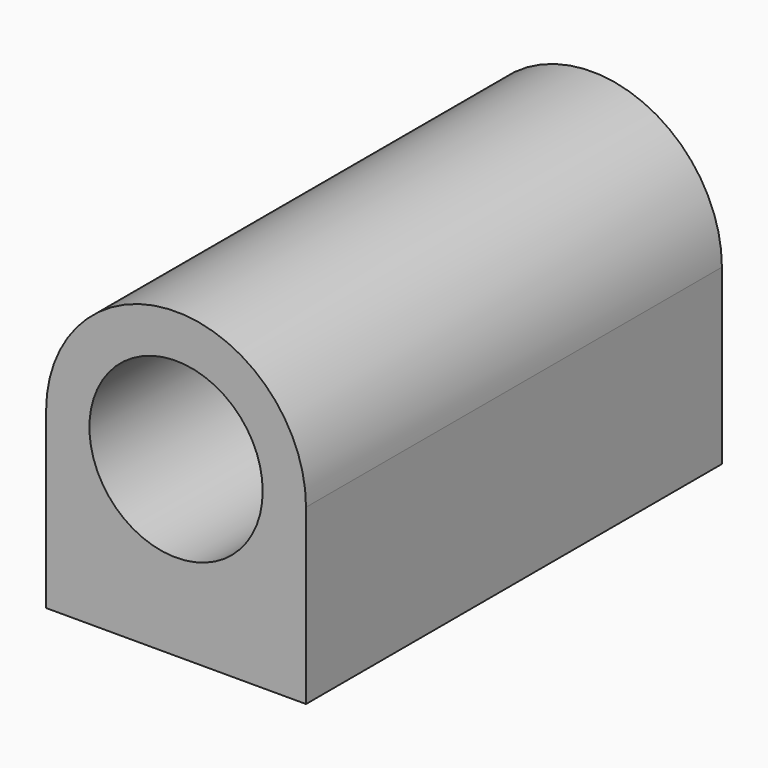
from build123d import *

# Parameters (mm, degrees)
F0_R     = 0.5
F1_DEPTH = 1.5
F2_R     = 0.065
F3_DEPTH = 0.5


with BuildPart() as f1:
    # F0 (on Front) → F1 (new body, symmetric)
    with BuildSketch(Plane.XZ):
        with BuildLine():
            Line((-0.75, 0), (-0.75, -1))
            Line((-0.75, -1), (0.75, -1))
            Line((0.75, -1), (0.75, 0))
            ThreePointArc((0.75, 0), (0, 0.75), (-0.75, 0))
        make_face()
        Circle(F0_R, mode=Mode.SUBTRACT)
    extrude(amount=F1_DEPTH, both=True)

    # F2 (on face) → F3 (cut)
    with BuildSketch(Plane(origin=(0, 0, -1), x_dir=(1, 0, 0), z_dir=(0, 0, -1))):
        with Locations((-0.566334, 1.25)):
            Circle(F2_R)
        with Locations((0.546259, 1.249402)):
            Circle(F2_R)
        with Locations((-0.508401, -1.25)):
            Circle(F2_R)
        with Locations((0.491599, -1.25)):
            Circle(F2_R)
    extrude(amount=-F3_DEPTH, mode=Mode.SUBTRACT)


solid = f1.part
